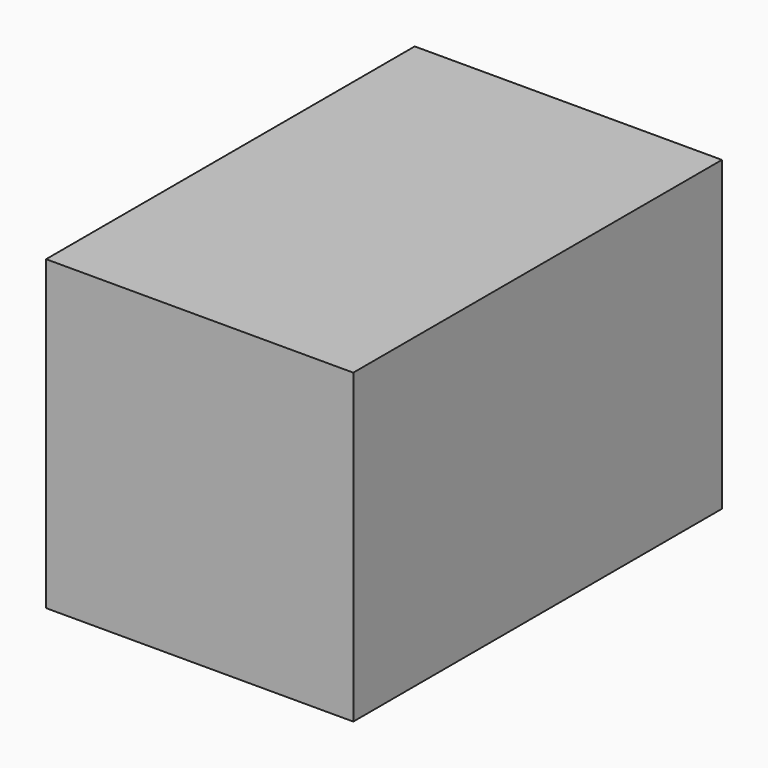
from build123d import *

# Parameters (mm, degrees)
BOX_W     = 10
BOX_H     = 15
BOX_DEPTH = 10


with BuildPart() as part:
    # Box → Box (new body)
    with BuildSketch(Plane.XY):
        with Locations((5, 7.5)):
            Rectangle(BOX_W, BOX_H)
    extrude(amount=BOX_DEPTH)


solid = part.part
